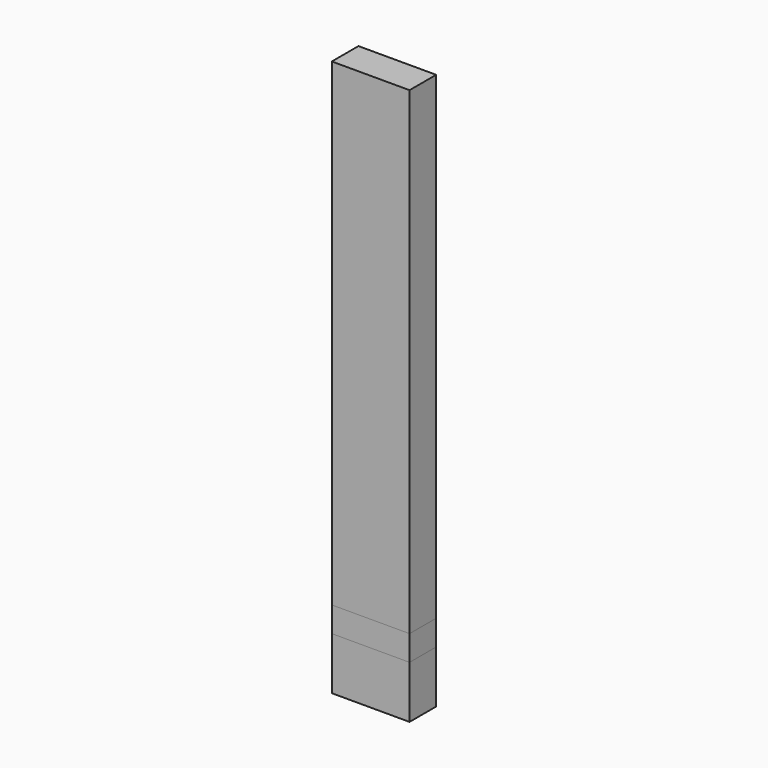
from build123d import *

# Parameters (mm, degrees)
F0_W     = 88.9
F0_H     = 38.1
F1_DEPTH = 350
F2_DEPTH = 636.2
F3_DEPTH = 88.9
F4_DEPTH = 60


with BuildPart() as f1:
    # F0 (on Top) → F1 (new body)
    with BuildSketch(Plane.XY):
        Rectangle(F0_W, F0_H)
    extrude(amount=F1_DEPTH)


with BuildPart() as f2:
    # F0 (on Top) → F2 (new body)
    with BuildSketch(Plane.XY):
        Rectangle(F0_W, F0_H)
    extrude(amount=F2_DEPTH)


with BuildPart() as f3:
    # F0 (on Top) → F3 (new body)
    with BuildSketch(Plane.XY):
        Rectangle(F0_W, F0_H)
    extrude(amount=F3_DEPTH)


with BuildPart() as f4:
    # F0 (on Top) → F4 (new body)
    with BuildSketch(Plane.XY):
        Rectangle(F0_W, F0_H)
    extrude(amount=F4_DEPTH)


solid = Compound([f1.part, f2.part, f3.part, f4.part])
